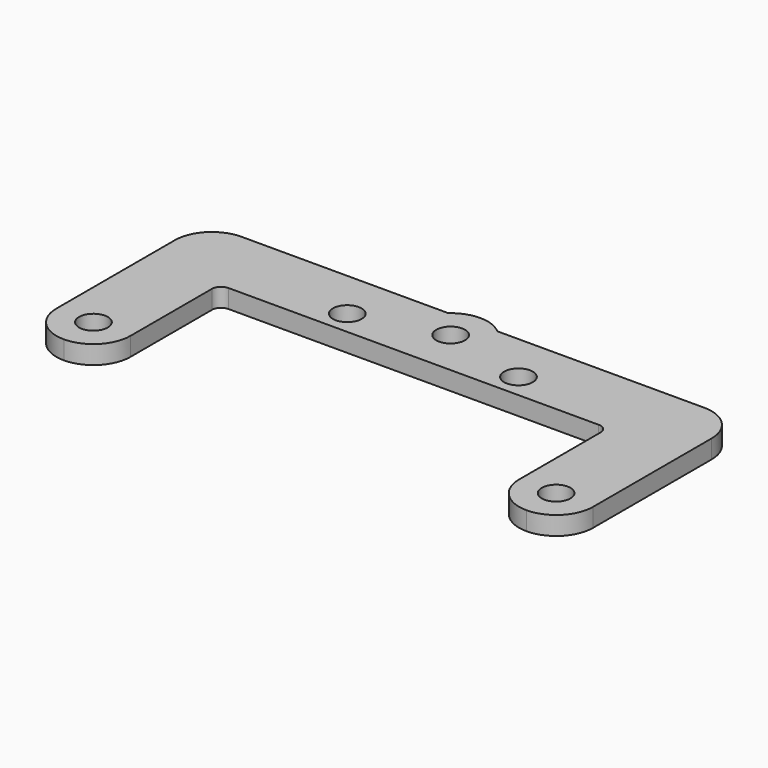
from build123d import *

# Parameters (mm, degrees)
F0_R     = 1.55
F1_DEPTH = 2


with BuildPart() as f1:
    # F0 (on Top) → F1 (new body)
    with BuildSketch(Plane.XY):
        with BuildLine():
            Line((-20, -5), (20, -5))
            ThreePointArc((20, -5), (20.707107, -5.292893), (21, -6))
            Line((21, -6), (21, -17))
            ThreePointArc((21, -17), (22.171573, -19.828427), (25, -21))
            ThreePointArc((25, -21), (27.828427, -19.828427), (29, -17))
            Line((29, -17), (29, -1))
            ThreePointArc((29, -1), (27.828427, 1.828427), (25, 3))
            Line((25, 3), (2.645751, 3))
            ThreePointArc((2.645751, 3), (0, 4), (-2.645751, 3))
            Line((-2.645751, 3), (-25, 3))
            ThreePointArc((-25, 3), (-27.828427, 1.828427), (-29, -1))
            Line((-29, -1), (-29, -17))
            ThreePointArc((-29, -17), (-27.828427, -19.828427), (-25, -21))
            ThreePointArc((-25, -21), (-22.171573, -19.828427), (-21, -17))
            Line((-21, -17), (-21, -6))
            ThreePointArc((-21, -6), (-20.707107, -5.292893), (-20, -5))
        make_face()
        with Locations((-25, -17)):
            Circle(F0_R, mode=Mode.SUBTRACT)
        with Locations((25, -17)):
            Circle(F0_R, mode=Mode.SUBTRACT)
        with Locations((-9.25, -2.4)):
            Circle(F0_R, mode=Mode.SUBTRACT)
        with Locations((9.25, -2.4)):
            Circle(F0_R, mode=Mode.SUBTRACT)
        Circle(F0_R, mode=Mode.SUBTRACT)
    extrude(amount=F1_DEPTH)


solid = f1.part
